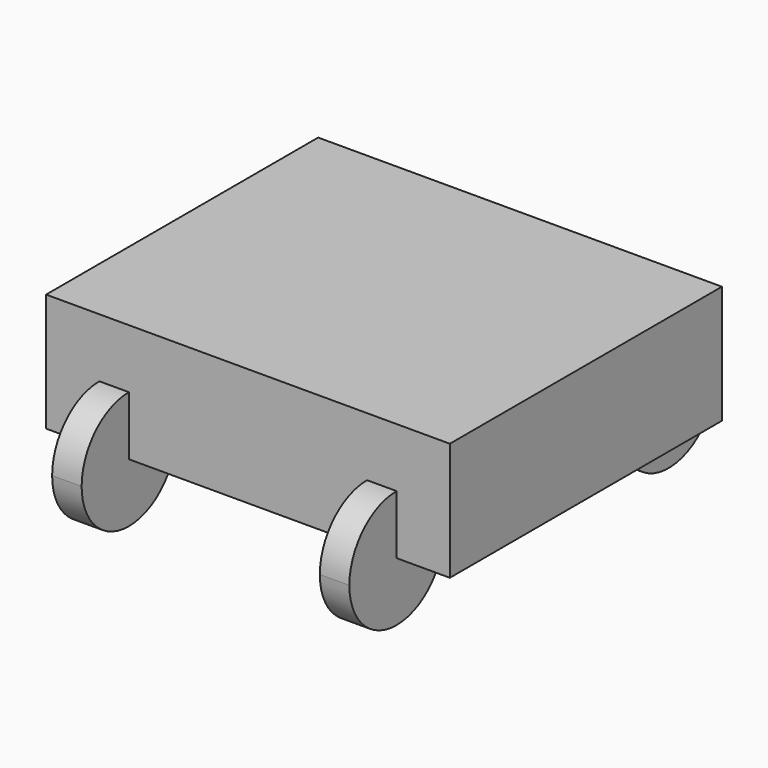
from build123d import *

# Parameters (mm, degrees)
F0_W     = 69.07307
F0_H     = 73.183507
F1_DEPTH = 25.4
F3_DEPTH = 6.35


with BuildPart() as f1:
    # F0 (on Top) → F1 (new body)
    with BuildSketch(Plane.XY):
        with Locations((8.906385, -13.518363)):
            Rectangle(F0_W, F0_H)
    extrude(amount=F1_DEPTH)

    # F2 (on face) → F3 (join)
    with BuildSketch(Plane(origin=(-25.63015, 0, 0), x_dir=(0, -1, 0), z_dir=(-1, 0, 0))):
        with BuildLine():
            Line((-23.07339, 0), (-10.37339, 0))
            ThreePointArc((-10.37339, 0), (-14.093134, 8.980256), (-23.07339, 12.7))
            Line((-23.07339, 12.7), (-23.07339, 0))
        make_face()
        with BuildLine():
            ThreePointArc((-23.07339, 12.7), (-32.053646, -8.980256), (-10.37339, 0))
            Line((-10.37339, 0), (-23.07339, 0))
            Line((-23.07339, 0), (-23.07339, 12.7))
        make_face()
        with BuildLine():
            ThreePointArc((50.110117, 12.7), (41.12986, 8.980256), (37.410117, 0))
            Line((37.410117, 0), (50.110117, 0))
            Line((50.110117, 0), (50.110117, 12.7))
        make_face()
        with BuildLine():
            Line((50.110117, 0), (37.410117, 0))
            ThreePointArc((37.410117, 0), (50.110117, -12.7), (62.810117, 0))
            ThreePointArc((62.810117, 0), (59.090373, 8.980256), (50.110117, 12.7))
            Line((50.110117, 12.7), (50.110117, 0))
        make_face()
    extrude(amount=F3_DEPTH)

    # F4: F1 across plane


with BuildPart() as f1_1:
    add(f1.part)
    add(f1.part.mirror(Plane.YZ))


solid = f1_1.part
